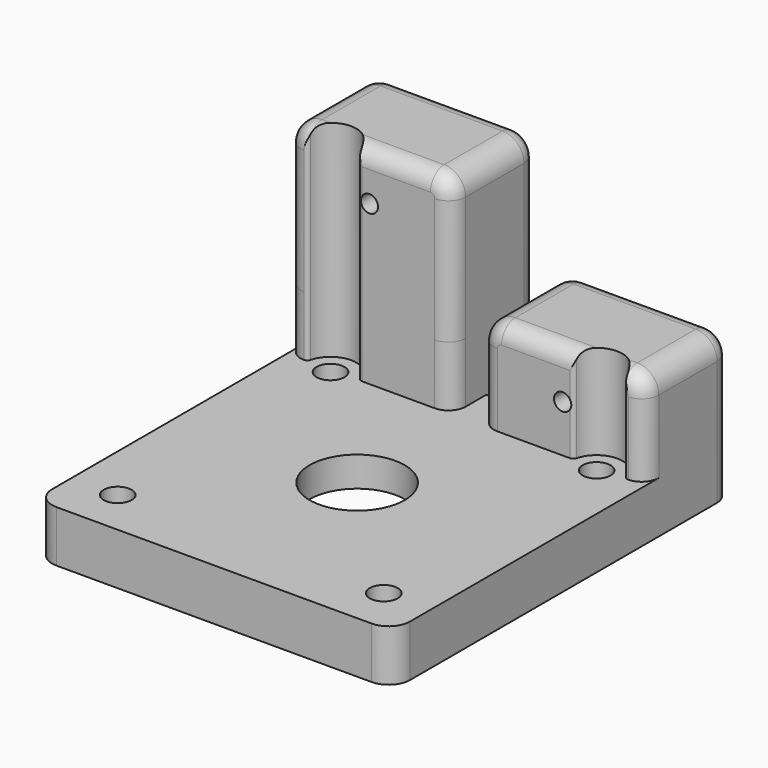
from build123d import *

# Parameters (mm, degrees)
EXTRUDE019_DEPTH = 20
SKETCH022_R      = 2
EXTRUDE017_DEPTH = 7.5
FILLET008_R      = 2
SKETCH021_R      = 1
EXTRUDE016_DEPTH = 5
FILLET007_R      = 2
EXTRUDE018_DEPTH = 13
EXTRUDE007_DEPTH = 20
SKETCH008_R      = 1
EXTRUDE004_DEPTH = 5
FILLET001_R      = 2
SKETCH005_R      = 11.5
EXTRUDE003_DEPTH = 2.5
FILLET_R         = 1
SKETCH006_R      = 1.625
SKETCH006_R_2    = 5.532603
EXTRUDE002_DEPTH = 6
SKETCH009_R      = 2
EXTRUDE005_DEPTH = 7.5
FILLET002_R      = 2


with BuildPart() as extrude019:
    # Sketch024 (on Face5 of Cut001) → Extrude019 (new body, symmetric)
    with BuildSketch(Plane.XY.offset(6)):
        with BuildLine():
            ThreePointArc((18.40856, 16.235038), (15.499807, 18.5), (12.591346, 16.234663))
            ThreePointArc((12.10657, 15.857107), (12.413798, 15.962631), (12.591346, 16.234663))
            Line((12.10657, 15.857107), (12.10657, 10.857107))
            Line((12.10657, 10.857107), (18.905391, 10.857107))
            Line((18.905391, 15.85769), (18.905391, 10.857107))
            ThreePointArc((18.40856, 16.235038), (18.590902, 15.959369), (18.905391, 15.85769))
        make_face()
    extrude(amount=EXTRUDE019_DEPTH, both=True)


with BuildPart() as extrude019_1:
    # Extrude019 placement: moved
    add(extrude019.part.moved(Location((-31, 0, 10))))


with BuildPart() as fillet008:
    # Sketch022 (on Face2 of Cut001) → Extrude017 (new body)
    with BuildSketch(Plane(origin=(0, 20.857107, 0), x_dir=(-1, 0, 0), z_dir=(0, 1, 0))):
        with BuildLine():
            Line((-20.857107, 14.5), (-20.857107, 0))
            Line((-20.857107, 0), (-1.642893, 0))
            Line((-1.642893, 0), (-1.642893, 14.5))
            ThreePointArc((-1.642893, 14.5), (-2.375126, 16.267767), (-4.142893, 17))
            Line((-4.142893, 17), (-18.357107, 17))
            ThreePointArc((-18.357107, 17), (-20.124874, 16.267767), (-20.857107, 14.5))
        make_face()
        with Locations((-11.25, 11.5)):
            Circle(SKETCH022_R, mode=Mode.SUBTRACT)
    extrude(amount=EXTRUDE017_DEPTH)

    # Fillet008
    fillet008_edges = [fillet008.edges().sort_by_distance(p)[0] for p in [
        (20.124874, 28.357107, 16.267767),
    ]]
    fillet(fillet008_edges, radius=FILLET008_R)


with BuildPart() as fillet008_1:
    # Fillet008 placement: moved
    add(fillet008.part.moved(Location((-22.5, 0, 13))))


with BuildPart() as fillet007:
    # Sketch021 (on Face2 of Cut001) → Extrude016 (new body)
    with BuildSketch(Plane(origin=(0, 20.857107, 0), x_dir=(-1, 0, 0), z_dir=(0, 1, 0))):
        with BuildLine():
            Line((-20.857107, 14.5), (-20.857107, 0))
            Line((-20.857107, 0), (-1.642893, 0))
            Line((-1.642893, 0), (-1.642893, 14.5))
            ThreePointArc((-1.642893, 14.5), (-2.375126, 16.267767), (-4.142893, 17))
            Line((-4.142893, 17), (-18.357107, 17))
            ThreePointArc((-18.357107, 17), (-20.124874, 16.267767), (-20.857107, 14.5))
        make_face()
        with Locations((-11.25, 11.5)):
            Circle(SKETCH021_R, mode=Mode.SUBTRACT)
    extrude(amount=-EXTRUDE016_DEPTH)

    # Fillet007
    fillet007_edges = [fillet007.edges().sort_by_distance(p)[0] for p in [
        (20.124874, 15.857107, 16.267767),
    ]]
    fillet(fillet007_edges, radius=FILLET007_R)


with BuildPart() as fillet007_1:
    # Fillet007 placement: moved
    add(fillet007.part.moved(Location((-22.5, 0, 13))))


with BuildPart() as cut005:
    # Sketch023 (on Face5 of Fillet008) → Extrude018 (new body)
    with BuildSketch(Plane(origin=(-22.5, 0, 13), x_dir=(1, 0, 0), z_dir=(0, 0, -1))):
        with BuildLine():
            ThreePointArc((1.642893, -26.357107), (2.22868, -27.77132), (3.642893, -28.357107))
            Line((18.857107, -28.357107), (3.642893, -28.357107))
            ThreePointArc((18.857107, -28.357107), (20.27132, -27.77132), (20.857107, -26.357107))
            Line((20.857107, -17.857107), (20.857107, -26.357107))
            ThreePointArc((20.857107, -17.857107), (20.27132, -16.442893), (18.857107, -15.857107))
            Line((3.642893, -15.857107), (18.857107, -15.857107))
            ThreePointArc((3.642893, -15.857107), (2.22868, -16.442893), (1.642893, -17.857107))
            Line((1.642893, -26.357107), (1.642893, -17.857107))
        make_face()
    extrude(amount=EXTRUDE018_DEPTH)

    # Fusion006: union Fillet008, Fillet007
    add(fillet008_1.part)
    add(fillet007_1.part)

    # Cut005: cut Extrude019
    add(extrude019_1.part, mode=Mode.SUBTRACT)


with BuildPart() as extrude007:
    # Sketch011 (on Face5 of Cut001) → Extrude007 (new body, symmetric)
    with BuildSketch(Plane.XY.offset(6)):
        with BuildLine():
            ThreePointArc((18.40856, 16.235038), (15.499807, 18.5), (12.591346, 16.234663))
            ThreePointArc((12.10657, 15.857107), (12.413798, 15.962631), (12.591346, 16.234663))
            Line((12.10657, 15.857107), (12.10657, 10.857107))
            Line((12.10657, 10.857107), (18.905391, 10.857107))
            Line((18.905391, 15.85769), (18.905391, 10.857107))
            ThreePointArc((18.40856, 16.235038), (18.590902, 15.959369), (18.905391, 15.85769))
        make_face()
    extrude(amount=EXTRUDE007_DEPTH, both=True)


with BuildPart() as cut002:
    # Sketch008 (on Face2 of Cut001) → Extrude004 (new body)
    with BuildSketch(Plane(origin=(0, 20.857107, 0), x_dir=(-1, 0, 0), z_dir=(0, 1, 0))):
        with BuildLine():
            Line((-20.857107, 14.5), (-20.857107, 0))
            Line((-20.857107, 0), (-1.642893, 0))
            Line((-1.642893, 0), (-1.642893, 14.5))
            ThreePointArc((-1.642893, 14.5), (-2.375126, 16.267767), (-4.142893, 17))
            Line((-4.142893, 17), (-18.357107, 17))
            ThreePointArc((-18.357107, 17), (-20.124874, 16.267767), (-20.857107, 14.5))
        make_face()
        with Locations((-11.25, 11.5)):
            Circle(SKETCH008_R, mode=Mode.SUBTRACT)
    extrude(amount=-EXTRUDE004_DEPTH)

    # Fillet001
    fillet001_edges = [cut002.edges().sort_by_distance(p)[0] for p in [
        (20.124874, 15.857107, 16.267767),
    ]]
    fillet(fillet001_edges, radius=FILLET001_R)

    # Cut002: cut Extrude007
    add(extrude007.part, mode=Mode.SUBTRACT)


with BuildPart() as fillet_body:
    # Sketch005 (on Face5 of Part__Feature005) → Extrude003 (new body)
    with BuildSketch(Plane.XY):
        Circle(SKETCH005_R)
    extrude(amount=EXTRUDE003_DEPTH)

    # Fillet
    fillet_edges = [fillet_body.edges().sort_by_distance(p)[0] for p in [
        (-11.5, 0, 2.5),
    ]]
    fillet(fillet_edges, radius=FILLET_R)


with BuildPart() as bracket_base:
    # Sketch006 (on Face5 of Part__Feature005) → Extrude002 (new body)
    with BuildSketch(Plane.XY):
        with BuildLine():
            ThreePointArc((-18.357107, 20.857107), (-20.124874, 20.124874), (-20.857107, 18.357107))
            Line((-20.857107, -18.357107), (-20.857107, 18.357107))
            ThreePointArc((-20.857107, -18.357107), (-20.124874, -20.124874), (-18.357107, -20.857107))
            Line((18.357107, -20.857107), (-18.357107, -20.857107))
            ThreePointArc((18.357107, -20.857107), (20.124874, -20.124874), (20.857107, -18.357107))
            Line((20.857107, 18.357107), (20.857107, -18.357107))
            ThreePointArc((20.857107, 18.357107), (20.124874, 20.124874), (18.357107, 20.857107))
            Line((-18.357107, 20.857107), (18.357107, 20.857107))
        make_face()
        with Locations((-15.5, 15.5)):
            Circle(SKETCH006_R, mode=Mode.SUBTRACT)
        with Locations((15.5, 15.5)):
            Circle(SKETCH006_R, mode=Mode.SUBTRACT)
        with Locations((-15.5, -15.5)):
            Circle(SKETCH006_R, mode=Mode.SUBTRACT)
        with Locations((15.5, -15.5)):
            Circle(SKETCH006_R, mode=Mode.SUBTRACT)
        Circle(SKETCH006_R_2, mode=Mode.SUBTRACT)
    extrude(amount=EXTRUDE002_DEPTH)

    # Cut001: cut Fillet body
    add(fillet_body.part, mode=Mode.SUBTRACT)


with BuildPart() as driver_motor_bracket:
    # Sketch009 (on Face2 of Cut001) → Extrude005 (new body)
    with BuildSketch(Plane(origin=(0, 20.857107, 0), x_dir=(-1, 0, 0), z_dir=(0, 1, 0))):
        with BuildLine():
            Line((-20.857107, 14.5), (-20.857107, 0))
            Line((-20.857107, 0), (-1.642893, 0))
            Line((-1.642893, 0), (-1.642893, 14.5))
            ThreePointArc((-1.642893, 14.5), (-2.375126, 16.267767), (-4.142893, 17))
            Line((-4.142893, 17), (-18.357107, 17))
            ThreePointArc((-18.357107, 17), (-20.124874, 16.267767), (-20.857107, 14.5))
        make_face()
        with Locations((-11.25, 11.5)):
            Circle(SKETCH009_R, mode=Mode.SUBTRACT)
    extrude(amount=EXTRUDE005_DEPTH)

    # Fillet002
    fillet002_edges = [driver_motor_bracket.edges().sort_by_distance(p)[0] for p in [
        (20.124874, 28.357107, 16.267767),
    ]]
    fillet(fillet002_edges, radius=FILLET002_R)

    # Fusion007: union Cut005, Cut002, bracket base
    add(cut005.part)
    add(cut002.part)
    add(bracket_base.part)


solid = driver_motor_bracket.part
